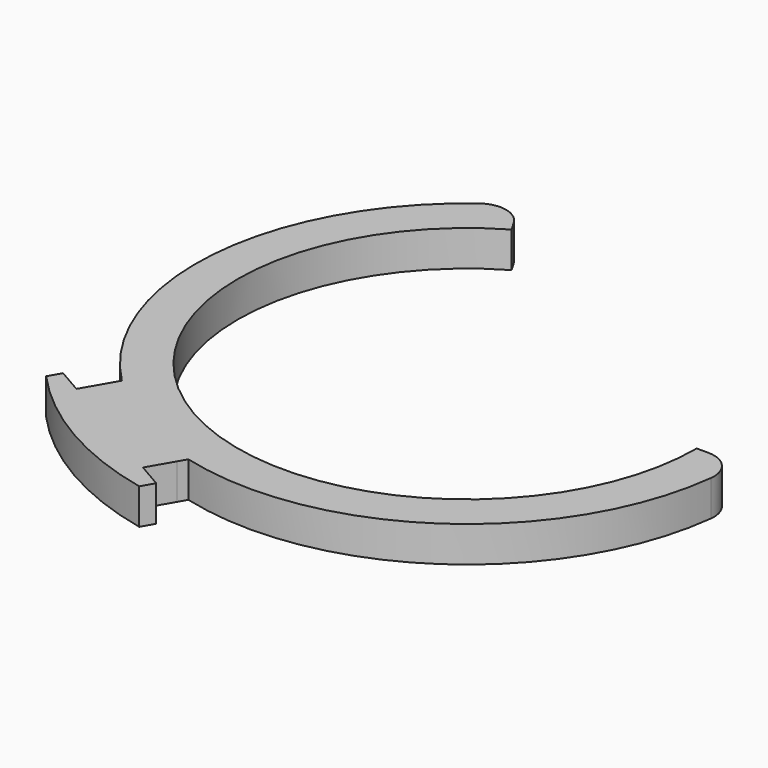
from build123d import *

# Parameters (mm, degrees)
F1_DEPTH = 2.5
F2_R     = 2


with BuildPart() as f1:
    # F0 (on Top) → F1 (new body)
    with BuildSketch(Plane.XY):
        with BuildLine():
            Line((-8.0375, 13.921358), (-9.5, 16.454483))
            ThreePointArc((-9.5, 16.454483), (-18.831831, 2.522325), (-13.495278, -13.374508))
            ThreePointArc((-13.495278, -13.374508), (-9.5, -16.454483), (-4.835024, -18.374508))
            ThreePointArc((-4.835024, -18.374508), (11.600313, -15.047682), (19, 0))
            Line((19, 0), (16.075, 0))
            ThreePointArc((16.075, 0), (-8.0375, -13.921358), (-8.0375, 13.921358))
        make_face()
        with BuildLine():
            ThreePointArc((-4.835024, -18.374508), (-9.5, -16.454483), (-13.495278, -13.374508))
            Line((-13.495278, -13.374508), (-13.830127, -13.954483))
            Line((-13.830127, -13.954483), (-14.830127, -15.686533))
            Line((-14.830127, -15.686533), (-16.562178, -14.686533))
            Line((-16.562178, -14.686533), (-17.062178, -15.552559))
            ThreePointArc((-17.062178, -15.552559), (-11.543396, -19.993749), (-4.937822, -22.552559))
            Line((-4.937822, -22.552559), (-4.437822, -21.686533))
            Line((-4.437822, -21.686533), (-6.169873, -20.686533))
            Line((-6.169873, -20.686533), (-5.169873, -18.954483))
            Line((-5.169873, -18.954483), (-4.835024, -18.374508))
        make_face()
    extrude(amount=F1_DEPTH)

    # F2
    f2_edges = [f1.edges().sort_by_distance(p)[0] for p in [
        (19, 0, 1.25),
        (-9.5, 16.454483, 1.25),
    ]]
    fillet(f2_edges, radius=F2_R)


solid = f1.part
